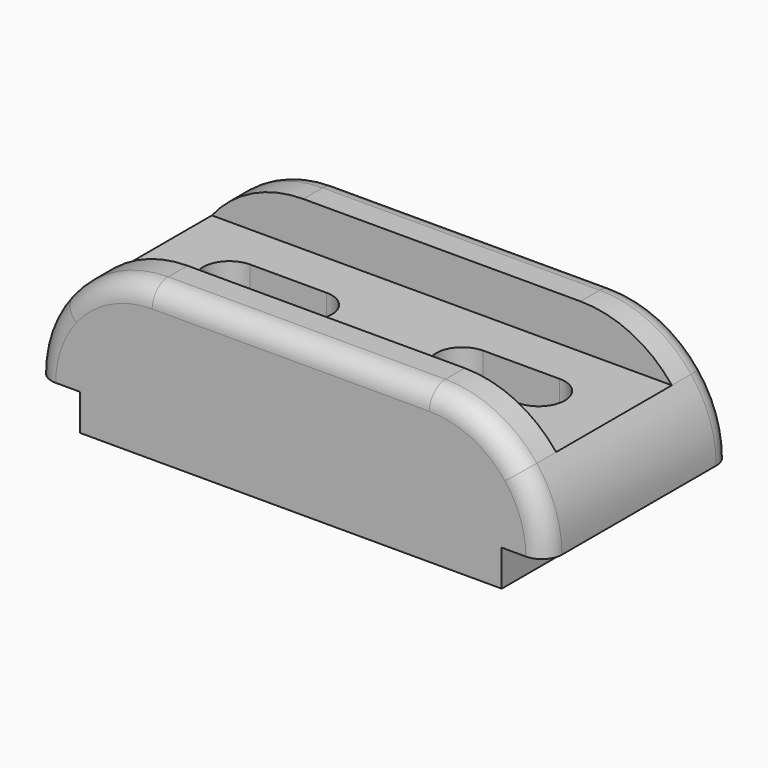
from build123d import *

# Parameters (mm, degrees)
F1_DEPTH = 29
F2_DEPTH = 18
F4_DEPTH = 27.001
F5_R     = 5


with BuildPart() as f1:
    # F0 (on Front) → F1 (new body, symmetric)
    with BuildSketch(Plane.XZ):
        with BuildLine():
            Line((0, 9), (0, 0))
            Line((0, 0), (105, 0))
            Line((105, 0), (105, 9))
            Line((105, 9), (116, 9))
            ThreePointArc((116, 9), (114.3897, 18.529129), (109.737634, 27))
            Line((109.737634, 27), (-4.737634, 27))
            ThreePointArc((-4.737634, 27), (-9.3897, 18.529129), (-11, 9))
            Line((-11, 9), (0, 9))
        make_face()
        with BuildLine():
            ThreePointArc((18, 38), (5.370669, 35.105555), (-4.737634, 27))
            Line((-4.737634, 27), (109.737634, 27))
            ThreePointArc((109.737634, 27), (99.629331, 35.105555), (87, 38))
            Line((87, 38), (18, 38))
        make_face()
    extrude(amount=F1_DEPTH, both=True)

    # F0 (on Front) → F2 (cut, symmetric)
    with BuildSketch(Plane.XZ):
        with BuildLine():
            ThreePointArc((18, 38), (5.370669, 35.105555), (-4.737634, 27))
            Line((-4.737634, 27), (109.737634, 27))
            ThreePointArc((109.737634, 27), (99.629331, 35.105555), (87, 38))
            Line((87, 38), (18, 38))
        make_face()
    extrude(amount=F2_DEPTH, both=True, mode=Mode.SUBTRACT)

    # F3 (on face) → F4 (cut, through all)
    with BuildSketch(Plane.XY.offset(27)):
        with BuildLine():
            ThreePointArc((14, 6.5), (7.5, 0), (14, -6.5))
            Line((14, -6.5), (33, -6.5))
            ThreePointArc((33, -6.5), (39.5, 0), (33, 6.5))
            Line((33, 6.5), (14, 6.5))
        make_face()
        with BuildLine():
            ThreePointArc((72, 6.5), (65.5, 0), (72, -6.5))
            Line((72, -6.5), (91, -6.5))
            ThreePointArc((91, -6.5), (97.5, 0), (91, 6.5))
            Line((91, 6.5), (72, 6.5))
        make_face()
    extrude(amount=-F4_DEPTH, mode=Mode.SUBTRACT)

    # F5
    f5_edges = [f1.edges().sort_by_distance(p)[0] for p in [
        (107.506097, -29, 29.506097),
        (107.506097, 29, 29.506097),
    ]]
    fillet(f5_edges, radius=F5_R)


solid = f1.part
